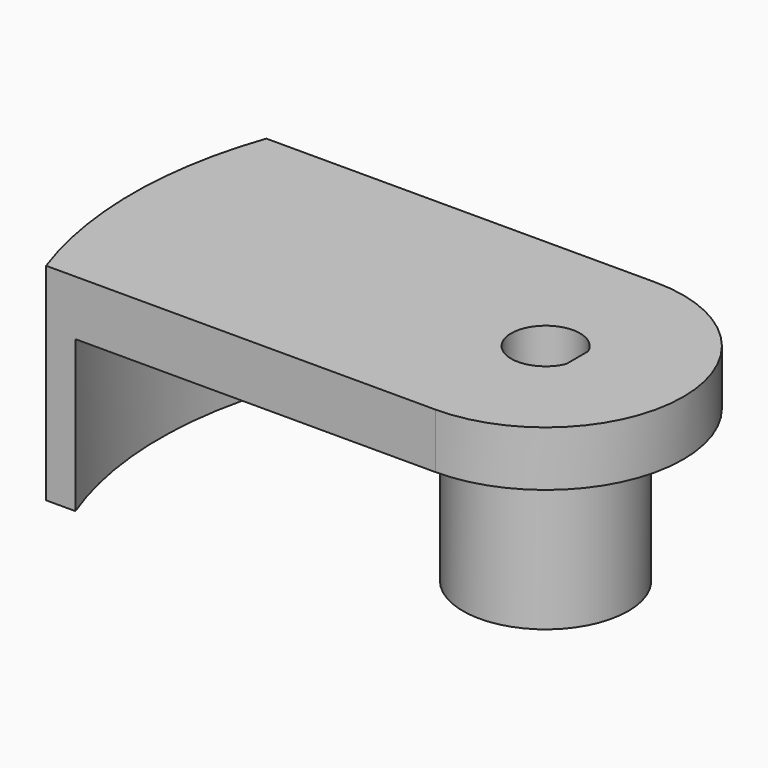
from build123d import *

# Parameters (mm, degrees)
PAD001_DEPTH    = 15
SKETCH004_R     = 28
SKETCH004_R_2   = 6
POCKET001_DEPTH = 11
POCKET002_DEPTH = 15.001


with BuildPart() as part:
    # Sketch003 → Pad001 (new body)
    with BuildSketch(Plane.XY):
        with BuildLine():
            ThreePointArc((0, -10), (10, 0), (0, 10))
            Line((0, 10), (-28.284271, 10))
            ThreePointArc((-28.284271, 10), (-30, 0), (-28.284271, -10))
            Line((0, -10), (-28.284271, -10))
        make_face()
    extrude(amount=PAD001_DEPTH)

    # Sketch004 (on Face5 of Pad001) → Pocket001 (cut)
    with BuildSketch(Plane(origin=(0, 0, 0), x_dir=(1, 0, 0), z_dir=(0, 0, -1))):
        Circle(SKETCH004_R)
        Circle(SKETCH004_R_2, mode=Mode.SUBTRACT)
    extrude(amount=-POCKET001_DEPTH, mode=Mode.SUBTRACT)

    # Sketch005 (on Face10 of Pocket001) → Pocket002 (cut, through all)
    with BuildSketch(Plane(origin=(0, 0, 0), x_dir=(1, 0, 0), z_dir=(0, 0, -1))):
        with BuildLine():
            ThreePointArc((2.291288, 1), (-2.5, 0), (2.291288, -1))
            Line((2.291288, -1), (2.291288, 1))
        make_face()
    extrude(amount=-POCKET002_DEPTH, mode=Mode.SUBTRACT)


solid = part.part
